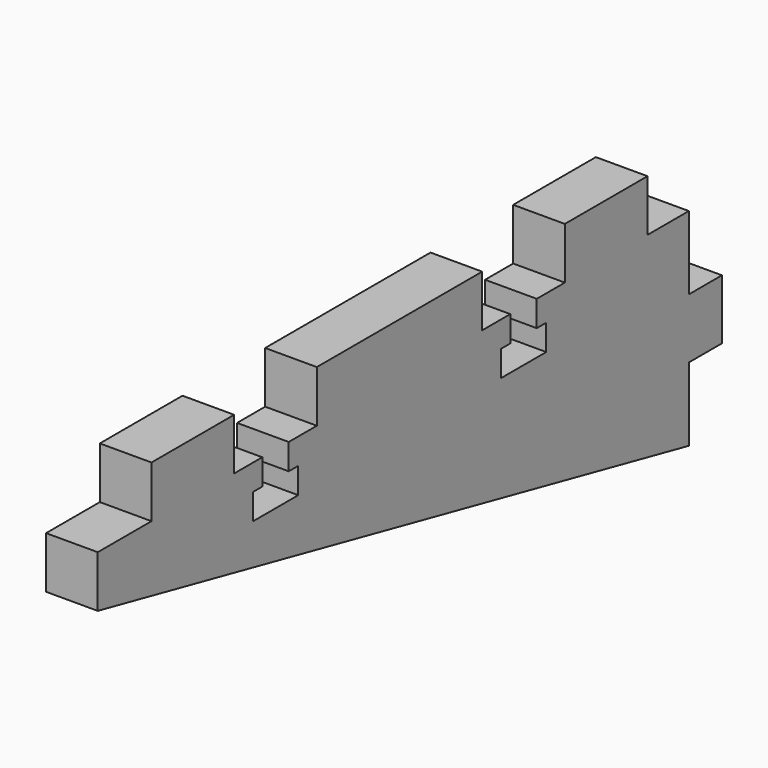
from build123d import *

# Parameters (mm, degrees)
F2_DEPTH = 5


with BuildPart() as f2:
    # F1 (on Right) → F2 (new body)
    with BuildSketch(Plane.YZ):
        Polygon((-71.5, 15), (0, 0), (0, 7.1), (4, 7.1), (4, 12.9), (0, 12.9), (0, 20), (-5, 20), (-5, 25), (-15, 25), (-15, 20), (-18.4, 20), (-18.4, 17.5), (-17.25, 17.5), (-17.25, 15), (-20, 15), (-22.75, 15), (-22.75, 17.5), (-21.6, 17.5), (-21.6, 20), (-25, 20), (-25, 25), (-45, 25), (-45, 20), (-48.4, 20), (-48.4, 17.5), (-47.25, 17.5), (-47.25, 15), (-50, 15), (-52.75, 15), (-52.75, 17.5), (-51.6, 17.5), (-51.6, 20), (-55, 20), (-55, 25), (-65, 25), (-65, 20), (-71.5, 20), align=None)
    extrude(amount=F2_DEPTH)


solid = f2.part
